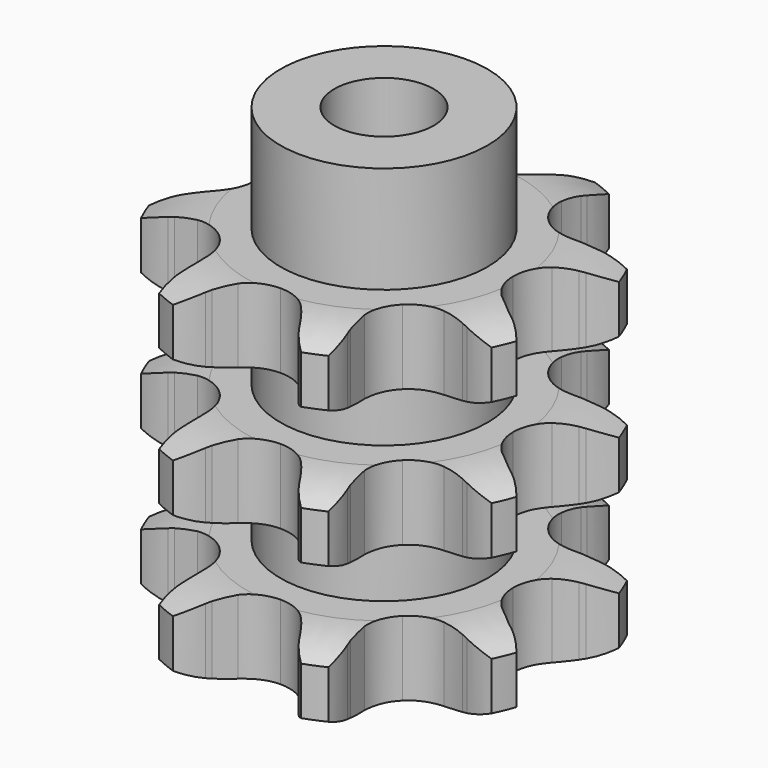
from build123d import *

# Parameters (mm, degrees)
PAD_DEPTH         = 42.1
SKETCH001_R       = 12.5
PAD001_DEPTH      = 55
SKETCH002_R       = 6
POCKET_DEPTH      = 0.001
POCKET_DEPTH_BACK = -55.001


with BuildPart() as part:
    # Sprocket → Pad (new body)
    with BuildSketch(Plane.XY):
        with BuildLine():
            ThreePointArc((-9.665725, 23.335123), (-7.403334, 21.91236), (-5.675507, 19.873419))
            Line((-5.675507, 19.873419), (-5.323224, 19.298545))
            ThreePointArc((-5.323224, 19.298545), (-4.606501, 18.245896), (-3.792186, 17.266789))
            ThreePointArc((-3.792186, 17.266789), (-2.071528, 16.033782), (0, 15.598187))
            ThreePointArc((0, 15.598187), (2.071528, 16.033782), (3.792186, 17.266789))
            ThreePointArc((3.792186, 17.266789), (4.606501, 18.245896), (5.323224, 19.298545))
            Line((5.323224, 19.298545), (5.675507, 19.873419))
            ThreePointArc((5.675507, 19.873419), (7.403334, 21.91236), (9.665725, 23.335123))
            ThreePointArc((9.665725, 23.335123), (10.259431, 20.729326), (10.03944, 18.065819))
            Line((10.03944, 18.065819), (9.882044, 17.410219))
            ThreePointArc((9.882044, 17.410219), (9.644509, 16.159085), (9.527983, 14.890944))
            ThreePointArc((9.527983, 14.890944), (9.872805, 12.802388), (11.029584, 11.029584))
            ThreePointArc((11.029584, 11.029584), (12.802388, 9.872805), (14.890944, 9.527983))
            Line((14.890944, 9.527983), (17.410219, 9.882044))
            ThreePointArc((17.410219, 9.882044), (17.737019, 9.964906), (18.065819, 10.03944))
            ThreePointArc((18.065819, 10.03944), (20.729326, 10.259431), (23.335123, 9.665725))
            ThreePointArc((23.335123, 9.665725), (21.91236, 7.403334), (19.873419, 5.675507))
            Line((19.873419, 5.675507), (19.298545, 5.323224))
            ThreePointArc((19.298545, 5.323224), (18.245896, 4.606501), (17.266789, 3.792186))
            ThreePointArc((17.266789, 3.792186), (16.033782, 2.071528), (15.598187, 0))
            ThreePointArc((15.598187, 0), (16.033782, -2.071528), (17.266789, -3.792186))
            Line((17.266789, -3.792186), (19.298545, -5.323224))
            ThreePointArc((19.298545, -5.323224), (19.588219, -5.495714), (19.873419, -5.675507))
            ThreePointArc((19.873419, -5.675507), (21.91236, -7.403334), (23.335123, -9.665725))
            ThreePointArc((23.335123, -9.665725), (20.729326, -10.259431), (18.065819, -10.03944))
            Line((18.065819, -10.03944), (17.410219, -9.882044))
            ThreePointArc((17.410219, -9.882044), (16.159085, -9.644509), (14.890944, -9.527983))
            ThreePointArc((14.890944, -9.527983), (12.802388, -9.872805), (11.029584, -11.029584))
            ThreePointArc((11.029584, -11.029584), (9.872805, -12.802388), (9.527983, -14.890944))
            Line((9.527983, -14.890944), (9.882044, -17.410219))
            ThreePointArc((9.882044, -17.410219), (9.964906, -17.737019), (10.03944, -18.065819))
            ThreePointArc((10.03944, -18.065819), (10.259431, -20.729326), (9.665725, -23.335123))
            ThreePointArc((9.665725, -23.335123), (7.403334, -21.91236), (5.675507, -19.873419))
            Line((5.675507, -19.873419), (5.323224, -19.298545))
            ThreePointArc((5.323224, -19.298545), (4.606501, -18.245896), (3.792186, -17.266789))
            ThreePointArc((3.792186, -17.266789), (2.071528, -16.033782), (0, -15.598187))
            ThreePointArc((0, -15.598187), (-2.071528, -16.033782), (-3.792186, -17.266789))
            Line((-3.792186, -17.266789), (-5.323224, -19.298545))
            ThreePointArc((-5.323224, -19.298545), (-5.495714, -19.588219), (-5.675507, -19.873419))
            ThreePointArc((-5.675507, -19.873419), (-7.403334, -21.91236), (-9.665725, -23.335123))
            ThreePointArc((-9.665725, -23.335123), (-10.259431, -20.729326), (-10.03944, -18.065819))
            Line((-10.03944, -18.065819), (-9.882044, -17.410219))
            ThreePointArc((-9.882044, -17.410219), (-9.644509, -16.159085), (-9.527983, -14.890944))
            ThreePointArc((-9.527983, -14.890944), (-9.872805, -12.802388), (-11.029584, -11.029584))
            ThreePointArc((-11.029584, -11.029584), (-12.802388, -9.872805), (-14.890944, -9.527983))
            Line((-14.890944, -9.527983), (-17.410219, -9.882044))
            ThreePointArc((-17.410219, -9.882044), (-17.737019, -9.964906), (-18.065819, -10.03944))
            ThreePointArc((-18.065819, -10.03944), (-20.729326, -10.259431), (-23.335123, -9.665725))
            ThreePointArc((-23.335123, -9.665725), (-21.91236, -7.403334), (-19.873419, -5.675507))
            Line((-19.873419, -5.675507), (-19.298545, -5.323224))
            ThreePointArc((-19.298545, -5.323224), (-18.245896, -4.606501), (-17.266789, -3.792186))
            ThreePointArc((-17.266789, -3.792186), (-16.033782, -2.071528), (-15.598187, 0))
            ThreePointArc((-15.598187, 0), (-16.033782, 2.071528), (-17.266789, 3.792186))
            Line((-17.266789, 3.792186), (-19.298545, 5.323224))
            ThreePointArc((-19.298545, 5.323224), (-19.588219, 5.495714), (-19.873419, 5.675507))
            ThreePointArc((-19.873419, 5.675507), (-21.91236, 7.403334), (-23.335123, 9.665725))
            ThreePointArc((-23.335123, 9.665725), (-20.729326, 10.259431), (-18.065819, 10.03944))
            Line((-18.065819, 10.03944), (-17.410219, 9.882044))
            ThreePointArc((-17.410219, 9.882044), (-16.159085, 9.644509), (-14.890944, 9.527983))
            ThreePointArc((-14.890944, 9.527983), (-12.802388, 9.872805), (-11.029584, 11.029584))
            ThreePointArc((-11.029584, 11.029584), (-9.872805, 12.802388), (-9.527983, 14.890944))
            Line((-9.527983, 14.890944), (-9.882044, 17.410219))
            ThreePointArc((-9.882044, 17.410219), (-9.964906, 17.737019), (-10.03944, 18.065819))
            ThreePointArc((-10.03944, 18.065819), (-10.259431, 20.729326), (-9.665725, 23.335123))
        make_face()
    extrude(amount=PAD_DEPTH)

    # Sketch → Groove (revolve, cut)
    with BuildSketch(Plane.XZ):
        with BuildLine():
            ThreePointArc((16.525762, 0), (20.10347, 0.405129), (23.5, 1.6))
            Line((23.5, 1.6), (23.5, 7.4))
            ThreePointArc((23.5, 7.4), (20.10347, 8.594871), (16.525762, 9))
            Line((12.5, 9), (16.525762, 9))
            Line((12.5, 9), (12.5, 16.55))
            Line((12.5, 16.55), (16.525762, 16.55))
            ThreePointArc((16.525762, 16.55), (20.10347, 16.955129), (23.5, 18.15))
            Line((23.5, 23.95), (23.5, 18.15))
            ThreePointArc((23.5, 23.95), (20.10347, 25.144871), (16.525762, 25.55))
            Line((12.5, 25.55), (16.525762, 25.55))
            Line((12.5, 33.1), (12.5, 25.55))
            Line((16.525762, 33.1), (12.5, 33.1))
            ThreePointArc((16.525762, 33.1), (20.10347, 33.505129), (23.5, 34.7))
            Line((23.5, 34.7), (23.5, 40.5))
            ThreePointArc((23.5, 40.5), (20.10347, 41.694871), (16.525762, 42.1))
            Line((16.525762, 42.1), (33.5, 42.1))
            Line((33.5, 42.1), (33.5, 0))
            Line((16.525762, 0), (33.5, 0))
        make_face()
    revolve(axis=Axis((0, 0, 0), (0, 0, 1)), mode=Mode.SUBTRACT)

    # Sketch001 → Pad001 (join)
    with BuildSketch(Plane.XY):
        Circle(SKETCH001_R)
    extrude(amount=PAD001_DEPTH)

    # Sketch002 → Pocket (cut, two sides)
    with BuildSketch(Plane.XY) as pocket_sk:
        Circle(SKETCH002_R)
    extrude(amount=-POCKET_DEPTH, mode=Mode.SUBTRACT)
    extrude(pocket_sk.sketch, amount=-POCKET_DEPTH_BACK, mode=Mode.SUBTRACT)


solid = part.part
